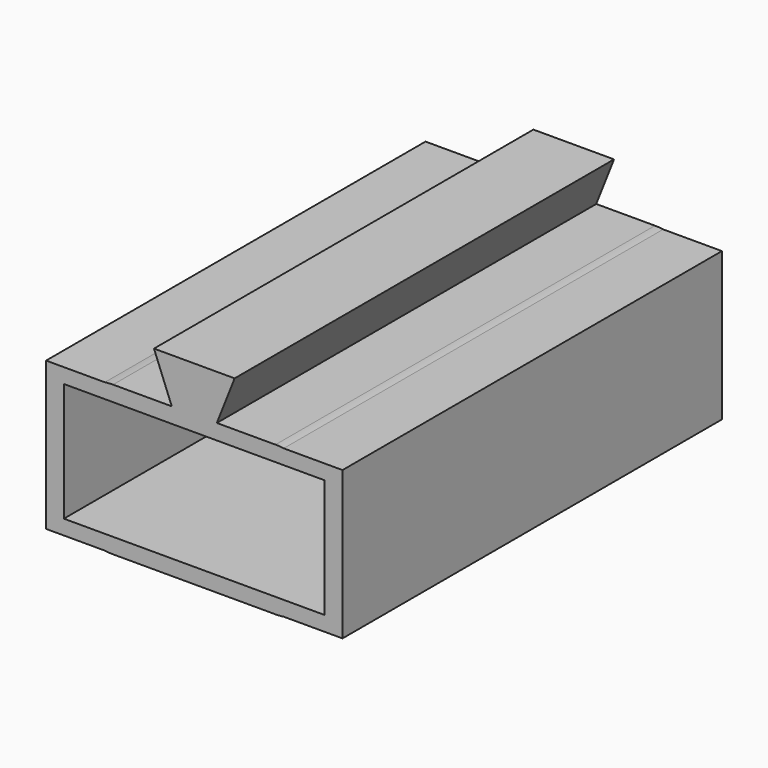
from build123d import *

# Parameters (mm, degrees)
F0_W      = 18.7
F0_H      = 38.5
F1_DEPTH  = 8
F2_R      = 2.5
F4_DEPTH  = 40
F7_DEPTH  = 40
F8_W      = 25
F8_H      = 12.5
F9_DEPTH  = 40
F10_W     = 22
F10_H     = 10
F11_DEPTH = 40


with BuildPart() as f1:
    # F0 (on Top) → F1 (new body)
    with BuildSketch(Plane.XY):
        Rectangle(F0_W, F0_H)
    extrude(amount=F1_DEPTH)

    # F2
    f2_edges = [f1.edges().sort_by_distance(p)[0] for p in [
        (9.35, 0, 8),
        (9.35, 0, 0),
        (-9.35, 0, 8),
        (-9.35, 0, 0),
    ]]
    fillet(f2_edges, radius=F2_R)


with BuildPart() as f4:
    # F3 (on face) → F4 (new body)
    with BuildSketch(Plane.XZ.offset(19.25)):
        with BuildLine():
            Line((-11.65, 5.5), (-11.65, 2.5))
            ThreePointArc((-11.65, 2.5), (-10.244113, -0.894113), (-6.85, -2.3))
            Line((-6.85, -2.3), (6.85, -2.3))
            ThreePointArc((6.85, -2.3), (10.244113, -0.894113), (11.65, 2.5))
            Line((11.65, 2.5), (11.65, 5.5))
            ThreePointArc((11.65, 5.5), (10.244113, 8.894113), (6.85, 10.3))
            Line((6.85, 10.3), (-6.85, 10.3))
            ThreePointArc((-6.85, 10.3), (-10.244113, 8.894113), (-11.65, 5.5))
        make_face()
        with BuildLine():
            Line((-6.85, 8.3), (6.85, 8.3))
            ThreePointArc((6.85, 8.3), (8.829899, 7.479899), (9.65, 5.5))
            Line((9.65, 5.5), (9.65, 2.5))
            ThreePointArc((9.65, 2.5), (8.829899, 0.520101), (6.85, -0.3))
            Line((6.85, -0.3), (-6.85, -0.3))
            ThreePointArc((-6.85, -0.3), (-8.829899, 0.520101), (-9.65, 2.5))
            Line((-9.65, 2.5), (-9.65, 5.5))
            ThreePointArc((-9.65, 5.5), (-8.829899, 7.479899), (-6.85, 8.3))
        make_face(mode=Mode.SUBTRACT)
    extrude(amount=-F4_DEPTH)

    # F6 (on face) → F7 (join)
    with BuildSketch(Plane.XZ.offset(19.25)):
        Polygon((3.4, 14.1), (1.9, 14.1), (-1.9, 14.1), (-3.4, 14.1), (-1.9, 10.3), (1.9, 10.3), align=None)
    extrude(amount=-F7_DEPTH)

    # F8 (on face) → F9 (join)
    with BuildSketch(Plane.XZ.offset(19.25)):
        with Locations((0, 4)):
            Rectangle(F8_W, F8_H)
    extrude(amount=-F9_DEPTH)

    # F10 (on face) → F11 (cut)
    with BuildSketch(Plane.XZ.offset(19.25)):
        with Locations((0, 4)):
            Rectangle(F10_W, F10_H)
    extrude(amount=-F11_DEPTH, mode=Mode.SUBTRACT)


solid = f4.part
